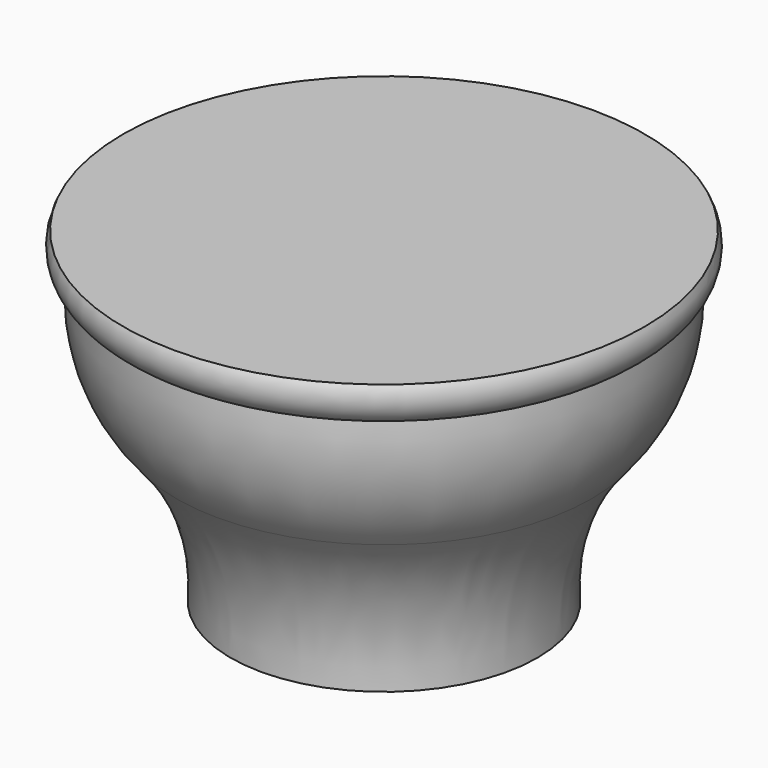
from build123d import *


with BuildPart() as f1:
    # F0 (on Front) → F1 (revolve)
    with BuildSketch(Plane.XZ):
        with BuildLine():
            ThreePointArc((-52.983873, 68.588711), (-53.346521, 64.168429), (-50.517093, 60.75306))
            ThreePointArc((-50.517093, 60.75306), (-49.110594, 46.655355), (-42.187501, 34.294356))
            ThreePointArc((-42.187501, 34.294356), (-33.394181, 19.403978), (-31.166541, 2.255118))
            Line((-31.166541, 2.255118), (0, 2.077036))
            Line((0, 2.077036), (0, 68.588711))
            Line((0, 68.588711), (-52.983873, 68.588711))
        make_face()
    revolve(axis=Axis((0, 0, 34.294356), (0, 0, -1)))


solid = f1.part
